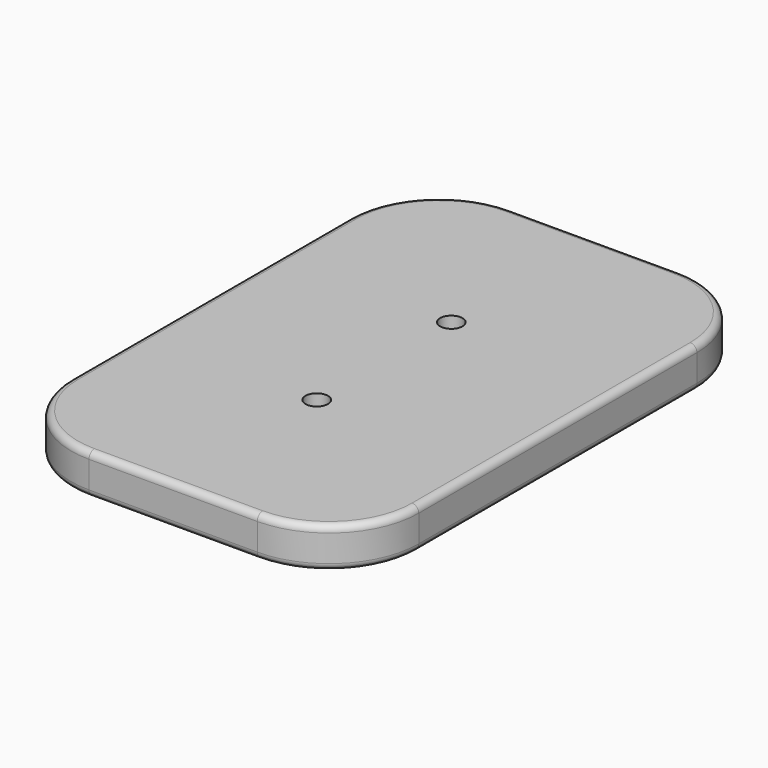
from build123d import *

# Parameters (mm, degrees)
F0_R     = 5
F1_DEPTH = 18
F2_R     = 10
F3_DEPTH = 10
F4_R     = 3


with BuildPart() as f1:
    # F0 (on Top) → F1 (new body)
    with BuildSketch(Plane.XY):
        with BuildLine():
            ThreePointArc((-72.732671, -78.195973), (-61.016942, -106.480244), (-32.732671, -118.195973))
            Line((-32.732671, -118.195973), (42.267329, -118.195973))
            ThreePointArc((42.267329, -118.195973), (70.5516, -106.480244), (82.267329, -78.195973))
            Line((82.267329, -78.195973), (82.267329, 76.804027))
            ThreePointArc((82.267329, 76.804027), (70.5516, 105.088298), (42.267329, 116.804027))
            Line((42.267329, 116.804027), (-32.732671, 116.804027))
            ThreePointArc((-32.732671, 116.804027), (-61.016942, 105.088298), (-72.732671, 76.804027))
            Line((-72.732671, 76.804027), (-72.732671, -78.195973))
        make_face()
        with Locations((4.767329, -38.195973)):
            Circle(F0_R, mode=Mode.SUBTRACT)
        with Locations((4.767329, 36.804027)):
            Circle(F0_R, mode=Mode.SUBTRACT)
    extrude(amount=F1_DEPTH)

    # F2 (on face) → F3 (cut)
    with BuildSketch(Plane(origin=(0, 0, 0), x_dir=(1, 0, 0), z_dir=(0, 0, -1))):
        with Locations((4.767329, 38.195973)):
            Circle(F2_R)
        with Locations((4.767329, -36.804027)):
            Circle(F2_R)
    extrude(amount=-F3_DEPTH, mode=Mode.SUBTRACT)

    # F4
    f4_edges = [f1.edges().sort_by_distance(p)[0] for p in [
        (82.267329, -0.695973, 18),
        (82.267329, -0.695973, 0),
    ]]
    fillet(f4_edges, radius=F4_R)


solid = f1.part
